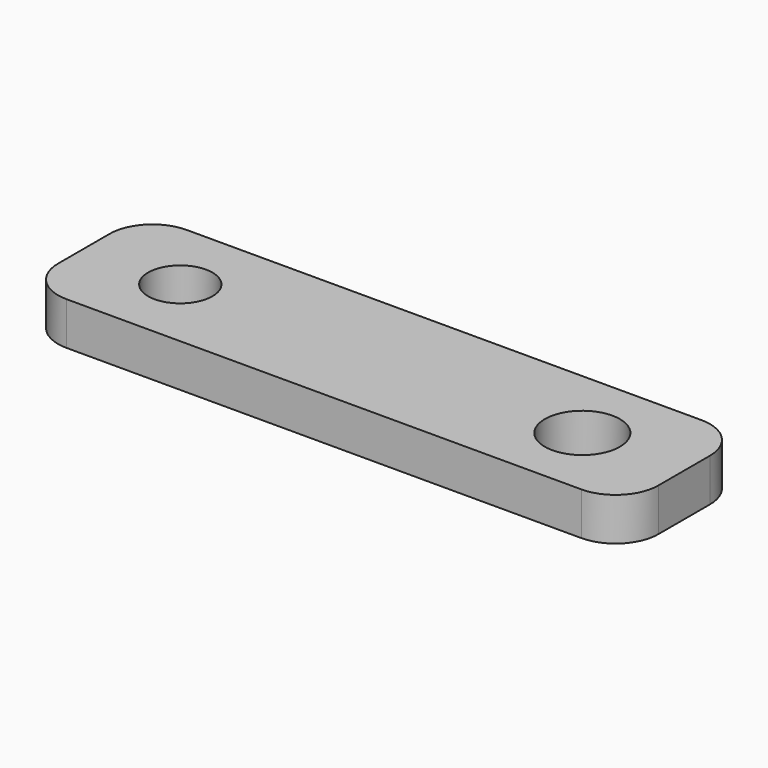
from build123d import *

# Parameters (mm, degrees)
F0_W     = 28
F0_H     = 7
F0_R     = 1.5
F0_R_2   = 1.75
F1_DEPTH = 2
F2_R     = 2


with BuildPart() as f1:
    # F0 (on Top) → F1 (new body)
    with BuildSketch(Plane.XY):
        with Locations((10.791823, 0.199619)):
            Rectangle(F0_W, F0_H)
        with Locations((1.291823, 0.199619)):
            Circle(F0_R, mode=Mode.SUBTRACT)
        with Locations((20.041823, 0.199619)):
            Circle(F0_R_2, mode=Mode.SUBTRACT)
    extrude(amount=F1_DEPTH)

    # F2
    f2_edges = [f1.edges().sort_by_distance(p)[0] for p in [
        (-3.208177, 3.699619, 1),
        (-3.208177, -3.300381, 1),
        (24.791823, -3.300381, 1),
        (24.791823, 3.699619, 1),
    ]]
    fillet(f2_edges, radius=F2_R)


solid = f1.part
